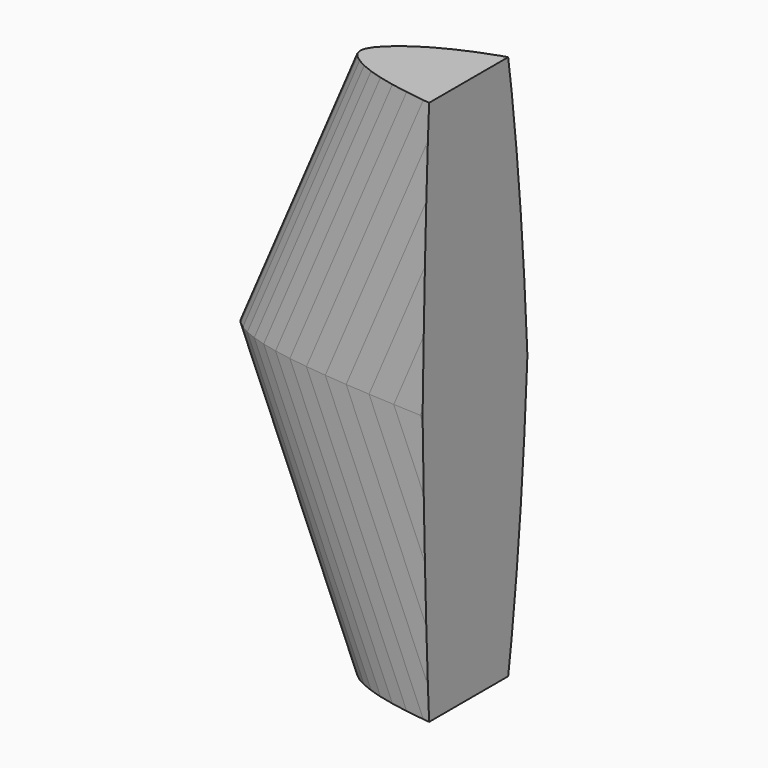
from build123d import *

# Parameters (mm, degrees)
BOX_W     = 300
BOX_H     = 100
BOX_DEPTH = 140


with BuildPart() as cubo:
    # Box → Box (new body)
    with BuildSketch(Plane(origin=(50, -50, -70), x_dir=(1, 0, 0), z_dir=(0, 0, 1))):
        with Locations((150, 50)):
            Rectangle(BOX_W, BOX_H)
    extrude(amount=BOX_DEPTH)


with BuildPart() as loft001:
    # Sketch003 → Loft001 section 0
    with BuildSketch(Plane(origin=(-5, 0, 0), x_dir=(1, 0, 0), z_dir=(0, 0, 1))):
        Polygon((300, 0), (299.703, 0.018), (298.818, 0.072), (297.342, 0.183), (295.287, 0.363), (292.659, 0.621), (289.467, 0.957), (285.723, 1.368), (281.445, 1.851), (276.648, 2.403), (271.353, 3.027), (265.578, 3.732), (259.344, 4.509), (252.681, 5.364), (245.613, 6.288), (238.167, 7.281), (230.373, 8.337), (222.264, 9.45), (213.867, 10.611), (205.218, 11.811), (196.353, 13.038), (187.305, 14.286), (178.107, 15.534), (168.801, 16.767), (159.42, 17.97), (150, 19.119), (140.583, 20.193), (131.199, 21.174), (121.893, 22.038), (112.698, 22.761), (103.647, 23.322), (94.782, 23.703), (86.133, 23.886), (77.736, 23.856), (69.627, 23.607), (61.833, 23.127), (54.387, 22.419), (47.319, 21.486), (40.656, 20.34), (34.422, 18.996), (28.647, 17.472), (23.352, 15.798), (18.555, 13.998), (14.277, 12.105), (10.533, 10.155), (7.341, 8.184), (4.713, 6.246), (2.658, 4.41), (1.182, 2.745), (0.297, 1.281), (0, 0), (0.297, -1.17), (1.182, -2.301), (2.658, -3.432), (4.713, -4.548), (7.341, -5.607), (10.533, -6.576), (14.277, -7.443), (18.555, -8.208), (23.352, -8.877), (28.647, -9.459), (34.422, -9.969), (40.656, -10.41), (47.319, -10.797), (54.387, -11.133), (61.833, -11.427), (69.627, -11.682), (77.736, -11.901), (86.133, -12.084), (94.782, -12.225), (103.647, -12.327), (112.698, -12.381), (121.893, -12.384), (131.199, -12.327), (140.583, -12.207), (150, -12.018), (159.42, -11.757), (168.801, -11.418), (178.107, -11.007), (187.305, -10.524), (196.353, -9.972), (205.218, -9.357), (213.867, -8.691), (222.264, -7.983), (230.373, -7.248), (238.167, -6.492), (245.613, -5.736), (252.681, -4.989), (259.344, -4.269), (265.578, -3.582), (271.353, -2.94), (276.648, -2.355), (281.445, -1.827), (285.723, -1.359), (289.467, -0.954), (292.659, -0.618), (295.287, -0.363), (297.342, -0.183), (298.818, -0.072), (299.703, -0.018), align=None)
    # Sketch004 → Loft001 section 1
    with BuildSketch(Plane(origin=(25, 0, 70), x_dir=(1, 0, 0), z_dir=(0, 0, 1))):
        Polygon((300, 0), (299.703, 0.018), (298.818, 0.072), (297.342, 0.183), (295.287, 0.363), (292.659, 0.621), (289.467, 0.957), (285.723, 1.368), (281.445, 1.851), (276.648, 2.403), (271.353, 3.027), (265.578, 3.732), (259.344, 4.509), (252.681, 5.364), (245.613, 6.288), (238.167, 7.281), (230.373, 8.337), (222.264, 9.45), (213.867, 10.611), (205.218, 11.811), (196.353, 13.038), (187.305, 14.286), (178.107, 15.534), (168.801, 16.767), (159.42, 17.97), (150, 19.119), (140.583, 20.193), (131.199, 21.174), (121.893, 22.038), (112.698, 22.761), (103.647, 23.322), (94.782, 23.703), (86.133, 23.886), (77.736, 23.856), (69.627, 23.607), (61.833, 23.127), (54.387, 22.419), (47.319, 21.486), (40.656, 20.34), (34.422, 18.996), (28.647, 17.472), (23.352, 15.798), (18.555, 13.998), (14.277, 12.105), (10.533, 10.155), (7.341, 8.184), (4.713, 6.246), (2.658, 4.41), (1.182, 2.745), (0.297, 1.281), (0, 0), (0.297, -1.17), (1.182, -2.301), (2.658, -3.432), (4.713, -4.548), (7.341, -5.607), (10.533, -6.576), (14.277, -7.443), (18.555, -8.208), (23.352, -8.877), (28.647, -9.459), (34.422, -9.969), (40.656, -10.41), (47.319, -10.797), (54.387, -11.133), (61.833, -11.427), (69.627, -11.682), (77.736, -11.901), (86.133, -12.084), (94.782, -12.225), (103.647, -12.327), (112.698, -12.381), (121.893, -12.384), (131.199, -12.327), (140.583, -12.207), (150, -12.018), (159.42, -11.757), (168.801, -11.418), (178.107, -11.007), (187.305, -10.524), (196.353, -9.972), (205.218, -9.357), (213.867, -8.691), (222.264, -7.983), (230.373, -7.248), (238.167, -6.492), (245.613, -5.736), (252.681, -4.989), (259.344, -4.269), (265.578, -3.582), (271.353, -2.94), (276.648, -2.355), (281.445, -1.827), (285.723, -1.359), (289.467, -0.954), (292.659, -0.618), (295.287, -0.363), (297.342, -0.183), (298.818, -0.072), (299.703, -0.018), align=None)
    loft()


with BuildPart() as cut:
    # Part__Mirroring001: instance of Loft001
    add(loft001.part.mirror(Plane(origin=(0, 0, 0), x_dir=(0, 1, 0), z_dir=(0, 0, 1))))

    # Fusion: union Loft001
    add(loft001.part)

    # Cut: cut Cubo
    add(cubo.part, mode=Mode.SUBTRACT)


solid = cut.part
